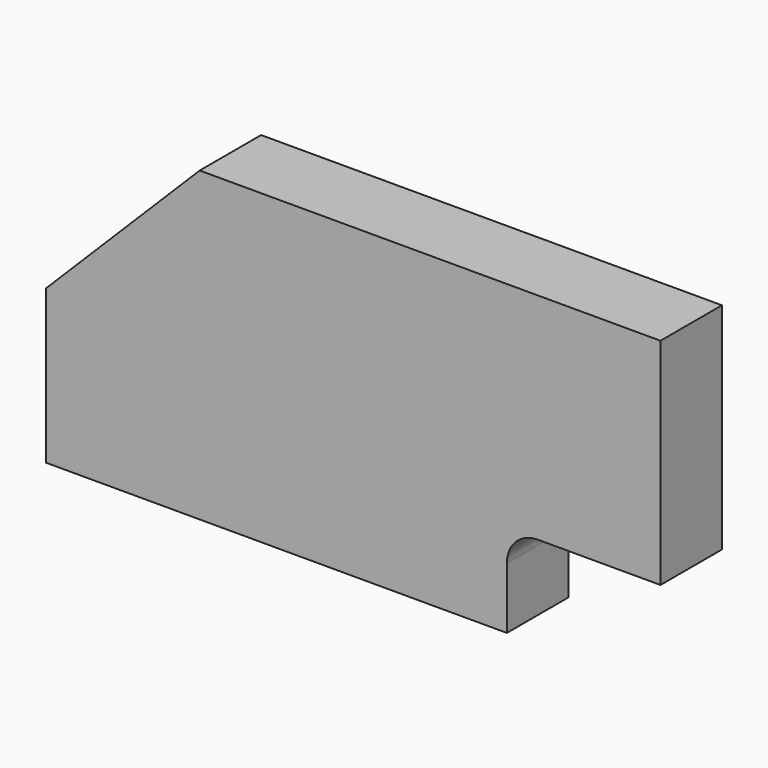
from build123d import *

# Parameters (mm, degrees)
F1_DEPTH = 25
F2_DEPTH = 25


with BuildPart() as f1:
    # F0 (on Front) → F1 (new body)
    with BuildSketch(Plane.XZ):
        with BuildLine():
            Line((-150, 50), (-150, 0))
            Line((-150, 0), (0, 0))
            Line((0, 0), (0, 20))
            ThreePointArc((0, 20), (2.928932, 27.071068), (10, 30))
            Line((10, 30), (50, 30))
            Line((50, 30), (50, 100))
            Line((50, 100), (-100, 100))
            Line((-100, 100), (-150, 50))
        make_face()
    extrude(amount=F1_DEPTH)

    # F0 (on Front) → F2 (join)
    with BuildSketch(Plane.XZ):
        with BuildLine():
            Line((-150, 50), (-150, 0))
            Line((-150, 0), (0, 0))
            Line((0, 0), (0, 20))
            ThreePointArc((0, 20), (2.928932, 27.071068), (10, 30))
            Line((10, 30), (50, 30))
            Line((50, 30), (50, 100))
            Line((50, 100), (-100, 100))
            Line((-100, 100), (-150, 50))
        make_face()
    extrude(amount=F2_DEPTH)


solid = f1.part
